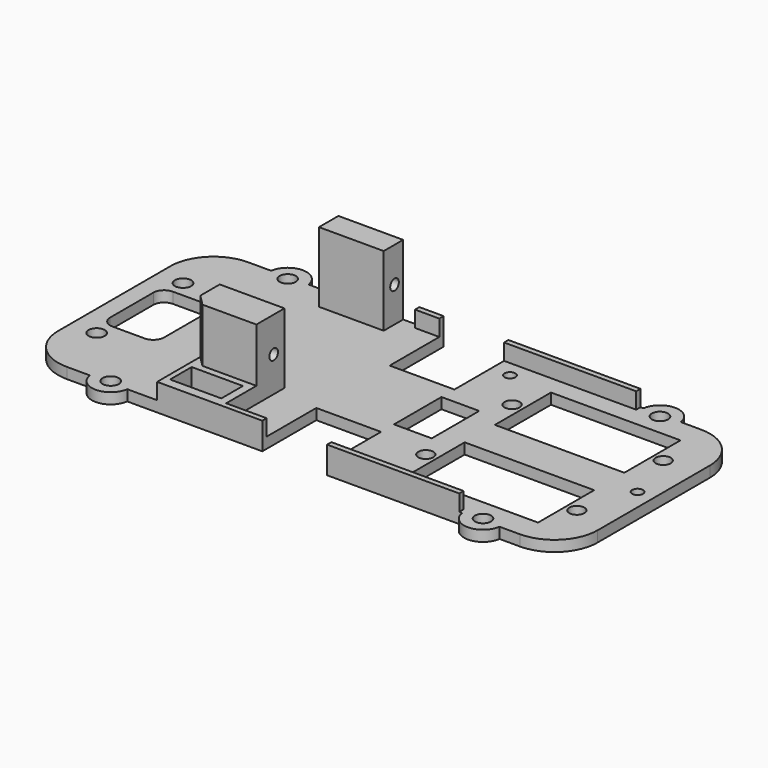
from build123d import *

# Parameters (mm, degrees)
BOX158_W               = 10
BOX158_H               = 10
BOX158_DEPTH           = 11
BOX087_W               = 7
BOX087_H               = 11
BOX087_DEPTH           = 10
CYLINDER154_R          = 1
CYLINDER154_DEPTH      = 25
CYLINDER150_R          = 1
CYLINDER150_DEPTH      = 25
CYLINDER151_R          = 1.5
CYLINDER151_DEPTH      = 25
CYLINDER146_R          = 1.5
CYLINDER146_DEPTH      = 25
CYLINDER147_R          = 1
CYLINDER147_DEPTH      = 25
BOX083_W               = 10
BOX083_H               = 14
BOX083_DEPTH           = 10
FILLET079_R            = 2
BOX086_W               = 9.5
BOX086_H               = 5
BOX086_DEPTH           = 10
CYLINDER024_R          = 1
CYLINDER024_DEPTH      = 20
CYLINDER023_R          = 1
CYLINDER023_DEPTH      = 20
CYLINDER029_R          = 1.5
CYLINDER029_DEPTH      = 10
CYLINDER026_R          = 1.5
CYLINDER026_DEPTH      = 5
CYLINDER030_R          = 1.5
CYLINDER030_DEPTH      = 10
CYLINDER027_R          = 3.5
CYLINDER027_DEPTH      = 5
BOX015_W               = 32
BOX015_H               = 13
BOX015_DEPTH           = 2
CYLINDER028_R          = 6.5
CYLINDER028_DEPTH      = 6
BOX014_W               = 23
BOX014_H               = 13
BOX014_DEPTH           = 23
CUT005_ROLL_ANGLE      = -90
CUT005_PLACEMENT_ANGLE = -90
BOX053_W               = 3
BOX053_H               = 33
BOX053_DEPTH           = 10
BOX055_W               = 24
BOX055_H               = 13
BOX055_DEPTH           = 10
BOX054_W               = 24
BOX054_H               = 13
BOX054_DEPTH           = 10
BOX062_W               = 5
BOX062_H               = 6
BOX062_DEPTH           = 5
BOX065_W               = 12
BOX065_H               = 9
BOX065_DEPTH           = 12
BOX041_W               = 12
BOX041_H               = 13
BOX041_DEPTH           = 10
BOX040_W               = 12
BOX040_H               = 13
BOX040_DEPTH           = 10
BOX039_W               = 56
BOX039_H               = 1
BOX039_DEPTH           = 3
BOX038_W               = 56
BOX038_H               = 1
BOX038_DEPTH           = 3
CYLINDER080_R          = 1.4
CYLINDER080_DEPTH      = 10
CYLINDER082_R          = 1.4
CYLINDER082_DEPTH      = 10
CYLINDER079_R          = 1.4
CYLINDER079_DEPTH      = 10
CYLINDER075_R          = 1.5
CYLINDER075_DEPTH      = 10
CYLINDER076_R          = 1.5
CYLINDER076_DEPTH      = 10
CYLINDER047_R          = 1.5
CYLINDER047_DEPTH      = 10
CYLINDER048_R          = 1.5
CYLINDER048_DEPTH      = 10
CYLINDER081_R          = 1.4
CYLINDER081_DEPTH      = 10
CYLINDER036_R          = 1.5
CYLINDER036_DEPTH      = 10
CYLINDER039_R          = 1.5
CYLINDER039_DEPTH      = 5
CYLINDER040_R          = 1.5
CYLINDER040_DEPTH      = 10
CYLINDER037_R          = 3.5
CYLINDER037_DEPTH      = 5
BOX018_W               = 32
BOX018_H               = 13
BOX018_DEPTH           = 2
CYLINDER038_R          = 6.5
CYLINDER038_DEPTH      = 6
BOX019_W               = 23
BOX019_H               = 13
BOX019_DEPTH           = 23
CYLINDER033_R          = 1.5
CYLINDER033_DEPTH      = 10
CYLINDER031_R          = 1.5
CYLINDER031_DEPTH      = 5
CYLINDER032_R          = 1.5
CYLINDER032_DEPTH      = 10
CYLINDER034_R          = 3.5
CYLINDER034_DEPTH      = 5
BOX017_W               = 32
BOX017_H               = 13
BOX017_DEPTH           = 2
CYLINDER035_R          = 6.5
CYLINDER035_DEPTH      = 6
BOX016_W               = 23
BOX016_H               = 13
BOX016_DEPTH           = 23
CYLINDER044_R          = 3.5
CYLINDER044_DEPTH      = 2
BOX007_W               = 100
BOX007_H               = 42
BOX007_DEPTH           = 2
CYLINDER077_R          = 3.5
CYLINDER077_DEPTH      = 2
CYLINDER078_R          = 3.5
CYLINDER078_DEPTH      = 2
CYLINDER043_R          = 3.5
CYLINDER043_DEPTH      = 2
BOX012_W               = 12
BOX012_H               = 42
BOX012_DEPTH           = 14
FILLET080_R            = 8
CHAMFER017_SIZE        = 2


with BuildPart() as obj1:
    # Box158 → Box158 (new body)
    with BuildSketch(Plane(origin=(-39, -23, -4), x_dir=(1, 0, 0), z_dir=(0, 0, 1))):
        with Locations((5, 5)):
            Rectangle(BOX158_W, BOX158_H)
    extrude(amount=BOX158_DEPTH)


with BuildPart() as obj2:
    # Box087 → Box087 (new body)
    with BuildSketch(Plane(origin=(-12, -5.5, -11), x_dir=(1, 0, 0), z_dir=(0, 0, 1))):
        with Locations((3.5, 5.5)):
            Rectangle(BOX087_W, BOX087_H)
    extrude(amount=BOX087_DEPTH)


with BuildPart() as zylinder154:
    # Cylinder154 → Cylinder154 (new body)
    with BuildSketch(Plane(origin=(28.75, 0, -10), x_dir=(1, 0, 0), z_dir=(0, 0, 1))):
        Circle(CYLINDER154_R)
    extrude(amount=CYLINDER154_DEPTH)


with BuildPart() as zylinder150:
    # Cylinder150 → Cylinder150 (new body)
    with BuildSketch(Plane(origin=(-8.5, -17, -10), x_dir=(1, 0, 0), z_dir=(0, 0, 1))):
        Circle(CYLINDER150_R)
    extrude(amount=CYLINDER150_DEPTH)


with BuildPart() as zylinder151:
    # Cylinder151 → Cylinder151 (new body)
    with BuildSketch(Plane(origin=(-63.5, -10, -10), x_dir=(1, 0, 0), z_dir=(0, 0, 1))):
        Circle(CYLINDER151_R)
    extrude(amount=CYLINDER151_DEPTH)


with BuildPart() as zylinder146:
    # Cylinder146 → Cylinder146 (new body)
    with BuildSketch(Plane(origin=(-63.5, 10, -10), x_dir=(1, 0, 0), z_dir=(0, 0, 1))):
        Circle(CYLINDER146_R)
    extrude(amount=CYLINDER146_DEPTH)


with BuildPart() as zylinder147:
    # Cylinder147 → Cylinder147 (new body)
    with BuildSketch(Plane(origin=(-8.5, 17, -10), x_dir=(1, 0, 0), z_dir=(0, 0, 1))):
        Circle(CYLINDER147_R)
    extrude(amount=CYLINDER147_DEPTH)


with BuildPart() as fillet079:
    # Box083 → Box083 (new body)
    with BuildSketch(Plane(origin=(-65, -7, -13.5), x_dir=(1, 0, 0), z_dir=(0, 0, 1))):
        with Locations((5, 7)):
            Rectangle(BOX083_W, BOX083_H)
    extrude(amount=BOX083_DEPTH)

    # Fillet079
    fillet079_edges = [fillet079.edges().sort_by_distance(p)[0] for p in [
        (-65, -7, -8.5),
        (-65, 7, -8.5),
        (-55, -7, -8.5),
        (-55, 7, -8.5),
    ]]
    fillet(fillet079_edges, radius=FILLET079_R)


with BuildPart() as fusion092:
    # Box086 → Box086 (new body)
    with BuildSketch(Plane(origin=(-42.5, -19.25, -11), x_dir=(1, 0, 0), z_dir=(0, 0, 1))):
        with Locations((4.75, 2.5)):
            Rectangle(BOX086_W, BOX086_H)
    extrude(amount=BOX086_DEPTH)

    # Fusion092: union obj2, Zylinder154, Zylinder150, Zylinder151, Zylinder146, Zylinder147, Fillet079
    add(obj2.part)
    add(zylinder154.part)
    add(zylinder150.part)
    add(zylinder151.part)
    add(zylinder146.part)
    add(zylinder147.part)
    add(fillet079.part)


with BuildPart() as zylinder024:
    # Cylinder024 → Cylinder024 (new body)
    with BuildSketch(Plane(origin=(-45, 19, -1.5), x_dir=(0, 0, -1), z_dir=(1, 0, 0))):
        Circle(CYLINDER024_R)
    extrude(amount=CYLINDER024_DEPTH)


with BuildPart() as fusion010:
    # Cylinder023 → Cylinder023 (new body)
    with BuildSketch(Plane(origin=(-45, -9, -1.5), x_dir=(0, 0, -1), z_dir=(1, 0, 0))):
        Circle(CYLINDER023_R)
    extrude(amount=CYLINDER023_DEPTH)

    # Fusion010: union Zylinder024
    add(zylinder024.part)


with BuildPart() as zylinder029:
    # Cylinder029 → Cylinder029 (new body)
    with BuildSketch(Plane(origin=(25.5, 6.5, 13), x_dir=(1, 0, 0), z_dir=(0, 0, 1))):
        Circle(CYLINDER029_R)
    extrude(amount=CYLINDER029_DEPTH)


with BuildPart() as zylinder026:
    # Cylinder026 → Cylinder026 (new body)
    with BuildSketch(Plane(origin=(16.5, 6.5, 30), x_dir=(1, 0, 0), z_dir=(0, 0, 1))):
        Circle(CYLINDER026_R)
    extrude(amount=CYLINDER026_DEPTH)


with BuildPart() as fusion013:
    # Cylinder030 → Cylinder030 (new body)
    with BuildSketch(Plane(origin=(-2.5, 6.5, 13), x_dir=(1, 0, 0), z_dir=(0, 0, 1))):
        Circle(CYLINDER030_R)
    extrude(amount=CYLINDER030_DEPTH)

    # Fusion013: union Zylinder029, Zylinder026
    add(zylinder029.part)
    add(zylinder026.part)


with BuildPart() as zylinder027:
    # Cylinder027 → Cylinder027 (new body)
    with BuildSketch(Plane(origin=(16.5, 6.5, 29), x_dir=(1, 0, 0), z_dir=(0, 0, 1))):
        Circle(CYLINDER027_R)
    extrude(amount=CYLINDER027_DEPTH)


with BuildPart() as obj3:
    # Box015 → Box015 (new body)
    with BuildSketch(Plane(origin=(-4.5, 0, 18), x_dir=(1, 0, 0), z_dir=(0, 0, 1))):
        with Locations((16, 6.5)):
            Rectangle(BOX015_W, BOX015_H)
    extrude(amount=BOX015_DEPTH)


with BuildPart() as zylinder028:
    # Cylinder028 → Cylinder028 (new body)
    with BuildSketch(Plane(origin=(16.5, 6.5, 23), x_dir=(1, 0, 0), z_dir=(0, 0, 1))):
        Circle(CYLINDER028_R)
    extrude(amount=CYLINDER028_DEPTH)


with BuildPart() as servo3_mask:
    # Box014 → Box014 (new body)
    with BuildSketch(Plane.XY):
        with Locations((11.5, 6.5)):
            Rectangle(BOX014_W, BOX014_H)
    extrude(amount=BOX014_DEPTH)

    # Fusion012: union Zylinder027, obj3, Zylinder028
    add(zylinder027.part)
    add(obj3.part)
    add(zylinder028.part)

    # Cut005: cut Fusion013
    add(fusion013.part, mode=Mode.SUBTRACT)


with BuildPart() as servo3_mask_1:
    # Cut005 roll: moved
    add(servo3_mask.part.rotate(Axis((0, 0, 0), (1, 0, 0)), CUT005_ROLL_ANGLE))


with BuildPart() as servo3_mask_2:
    # Cut005 placement: moved
    add(servo3_mask_1.part.moved(Location((-49.5, 16.5, 5))).rotate(Axis((-49.5, 16.5, 5), (0, 0, 1)), CUT005_PLACEMENT_ANGLE))


with BuildPart() as obj4:
    # Box053 → Box053 (new body)
    with BuildSketch(Plane(origin=(-31.5, -10, -8), x_dir=(1, 0, 0), z_dir=(0, 0, 1))):
        with Locations((1.5, 16.5)):
            Rectangle(BOX053_W, BOX053_H)
    extrude(amount=BOX053_DEPTH)


with BuildPart() as obj5:
    # Box055 → Box055 (new body)
    with BuildSketch(Plane(origin=(-0.5, -16.5, -12.5), x_dir=(1, 0, 0), z_dir=(0, 0, 1))):
        with Locations((12, 6.5)):
            Rectangle(BOX055_W, BOX055_H)
    extrude(amount=BOX055_DEPTH)


with BuildPart() as obj6:
    # Box054 → Box054 (new body)
    with BuildSketch(Plane(origin=(-0.5, 3.5, -12.5), x_dir=(1, 0, 0), z_dir=(0, 0, 1))):
        with Locations((12, 6.5)):
            Rectangle(BOX054_W, BOX054_H)
    extrude(amount=BOX054_DEPTH)


with BuildPart() as obj7:
    # Box062 → Box062 (new body)
    with BuildSketch(Plane(origin=(-29, 5, -8), x_dir=(1, 0, 0), z_dir=(0, 0, 1))):
        with Locations((2.5, 3)):
            Rectangle(BOX062_W, BOX062_H)
    extrude(amount=BOX062_DEPTH)


with BuildPart() as fusion063:
    # Box065 → Box065 (new body)
    with BuildSketch(Plane(origin=(-45, -22, -5), x_dir=(1, 0, 0), z_dir=(0, 0, 1))):
        with Locations((6, 4.5)):
            Rectangle(BOX065_W, BOX065_H)
    extrude(amount=BOX065_DEPTH)

    # Fusion063: union Fusion010, Servo3_mask, obj4, obj5, obj6, obj7
    add(fusion010.part)
    add(servo3_mask_2.part)
    add(obj4.part)
    add(obj5.part)
    add(obj6.part)
    add(obj7.part)


with BuildPart() as fusion063_1:
    # Fusion063 placement: moved
    add(fusion063.part.moved(Location((0, 0, 1))))


with BuildPart() as obj8:
    # Box041 → Box041 (new body)
    with BuildSketch(Plane(origin=(-24, 8.5, -11), x_dir=(1, 0, 0), z_dir=(0, 0, 1))):
        with Locations((6, 6.5)):
            Rectangle(BOX041_W, BOX041_H)
    extrude(amount=BOX041_DEPTH)


with BuildPart() as fusion044:
    # Box040 → Box040 (new body)
    with BuildSketch(Plane(origin=(-24, -21.5, -11), x_dir=(1, 0, 0), z_dir=(0, 0, 1))):
        with Locations((6, 6.5)):
            Rectangle(BOX040_W, BOX040_H)
    extrude(amount=BOX040_DEPTH)

    # Fusion044: union obj8
    add(obj8.part)


with BuildPart() as obj9:
    # Box039 → Box039 (new body)
    with BuildSketch(Plane(origin=(-43.5, -21, -7), x_dir=(1, 0, 0), z_dir=(0, 0, 1))):
        with Locations((28, 0.5)):
            Rectangle(BOX039_W, BOX039_H)
    extrude(amount=BOX039_DEPTH)


with BuildPart() as fusion042:
    # Box038 → Box038 (new body)
    with BuildSketch(Plane(origin=(-43.5, 20, -7), x_dir=(1, 0, 0), z_dir=(0, 0, 1))):
        with Locations((28, 0.5)):
            Rectangle(BOX038_W, BOX038_H)
    extrude(amount=BOX038_DEPTH)

    # Fusion042: union obj9
    add(obj9.part)


with BuildPart() as zylinder080:
    # Cylinder080 → Cylinder080 (new body)
    with BuildSketch(Plane(origin=(25.5, 10, -13), x_dir=(1, 0, 0), z_dir=(0, 0, 1))):
        Circle(CYLINDER080_R)
    extrude(amount=CYLINDER080_DEPTH)


with BuildPart() as zylinder082:
    # Cylinder082 → Cylinder082 (new body)
    with BuildSketch(Plane(origin=(-2.5, -10, -13), x_dir=(1, 0, 0), z_dir=(0, 0, 1))):
        Circle(CYLINDER082_R)
    extrude(amount=CYLINDER082_DEPTH)


with BuildPart() as zylinder079:
    # Cylinder079 → Cylinder079 (new body)
    with BuildSketch(Plane(origin=(-2.5, 10, -13), x_dir=(1, 0, 0), z_dir=(0, 0, 1))):
        Circle(CYLINDER079_R)
    extrude(amount=CYLINDER079_DEPTH)


with BuildPart() as zylinder075:
    # Cylinder075 → Cylinder075 (new body)
    with BuildSketch(Plane(origin=(-52.5, -20.5, -14), x_dir=(1, 0, 0), z_dir=(0, 0, 1))):
        Circle(CYLINDER075_R)
    extrude(amount=CYLINDER075_DEPTH)


with BuildPart() as zylinder076:
    # Cylinder076 → Cylinder076 (new body)
    with BuildSketch(Plane(origin=(-52.5, 20.5, -14), x_dir=(1, 0, 0), z_dir=(0, 0, 1))):
        Circle(CYLINDER076_R)
    extrude(amount=CYLINDER076_DEPTH)


with BuildPart() as zylinder047:
    # Cylinder047 → Cylinder047 (new body)
    with BuildSketch(Plane(origin=(16.5, -20.5, -14), x_dir=(1, 0, 0), z_dir=(0, 0, 1))):
        Circle(CYLINDER047_R)
    extrude(amount=CYLINDER047_DEPTH)


with BuildPart() as zylinder048:
    # Cylinder048 → Cylinder048 (new body)
    with BuildSketch(Plane(origin=(16.5, 20.5, -14), x_dir=(1, 0, 0), z_dir=(0, 0, 1))):
        Circle(CYLINDER048_R)
    extrude(amount=CYLINDER048_DEPTH)


with BuildPart() as fusion039:
    # Cylinder081 → Cylinder081 (new body)
    with BuildSketch(Plane(origin=(25.5, -10, -13), x_dir=(1, 0, 0), z_dir=(0, 0, 1))):
        Circle(CYLINDER081_R)
    extrude(amount=CYLINDER081_DEPTH)

    # Fusion039: union Zylinder080, Zylinder082, Zylinder079, Zylinder075, Zylinder076, Zylinder047, Zylinder048
    add(zylinder080.part)
    add(zylinder082.part)
    add(zylinder079.part)
    add(zylinder075.part)
    add(zylinder076.part)
    add(zylinder047.part)
    add(zylinder048.part)


with BuildPart() as zylinder036:
    # Cylinder036 → Cylinder036 (new body)
    with BuildSketch(Plane(origin=(25.5, 6.5, 13), x_dir=(1, 0, 0), z_dir=(0, 0, 1))):
        Circle(CYLINDER036_R)
    extrude(amount=CYLINDER036_DEPTH)


with BuildPart() as zylinder039:
    # Cylinder039 → Cylinder039 (new body)
    with BuildSketch(Plane(origin=(16.5, 6.5, 30), x_dir=(1, 0, 0), z_dir=(0, 0, 1))):
        Circle(CYLINDER039_R)
    extrude(amount=CYLINDER039_DEPTH)


with BuildPart() as fusion016:
    # Cylinder040 → Cylinder040 (new body)
    with BuildSketch(Plane(origin=(-2.5, 6.5, 13), x_dir=(1, 0, 0), z_dir=(0, 0, 1))):
        Circle(CYLINDER040_R)
    extrude(amount=CYLINDER040_DEPTH)

    # Fusion016: union Zylinder036, Zylinder039
    add(zylinder036.part)
    add(zylinder039.part)


with BuildPart() as zylinder037:
    # Cylinder037 → Cylinder037 (new body)
    with BuildSketch(Plane(origin=(16.5, 6.5, 29), x_dir=(1, 0, 0), z_dir=(0, 0, 1))):
        Circle(CYLINDER037_R)
    extrude(amount=CYLINDER037_DEPTH)


with BuildPart() as obj10:
    # Box018 → Box018 (new body)
    with BuildSketch(Plane(origin=(-4.5, 0, 18), x_dir=(1, 0, 0), z_dir=(0, 0, 1))):
        with Locations((16, 6.5)):
            Rectangle(BOX018_W, BOX018_H)
    extrude(amount=BOX018_DEPTH)


with BuildPart() as zylinder038:
    # Cylinder038 → Cylinder038 (new body)
    with BuildSketch(Plane(origin=(16.5, 6.5, 23), x_dir=(1, 0, 0), z_dir=(0, 0, 1))):
        Circle(CYLINDER038_R)
    extrude(amount=CYLINDER038_DEPTH)


with BuildPart() as servo2_mask:
    # Box019 → Box019 (new body)
    with BuildSketch(Plane.XY):
        with Locations((11.5, 6.5)):
            Rectangle(BOX019_W, BOX019_H)
    extrude(amount=BOX019_DEPTH)

    # Fusion017: union Zylinder037, obj10, Zylinder038
    add(zylinder037.part)
    add(obj10.part)
    add(zylinder038.part)

    # Cut008: cut Fusion016
    add(fusion016.part, mode=Mode.SUBTRACT)


with BuildPart() as servo2_mask_1:
    # Cut008 placement: moved
    add(servo2_mask.part.moved(Location((0, -16.5, -25))))


with BuildPart() as zylinder033:
    # Cylinder033 → Cylinder033 (new body)
    with BuildSketch(Plane(origin=(25.5, 6.5, 13), x_dir=(1, 0, 0), z_dir=(0, 0, 1))):
        Circle(CYLINDER033_R)
    extrude(amount=CYLINDER033_DEPTH)


with BuildPart() as zylinder031:
    # Cylinder031 → Cylinder031 (new body)
    with BuildSketch(Plane(origin=(16.5, 6.5, 30), x_dir=(1, 0, 0), z_dir=(0, 0, 1))):
        Circle(CYLINDER031_R)
    extrude(amount=CYLINDER031_DEPTH)


with BuildPart() as fusion015:
    # Cylinder032 → Cylinder032 (new body)
    with BuildSketch(Plane(origin=(-2.5, 6.5, 13), x_dir=(1, 0, 0), z_dir=(0, 0, 1))):
        Circle(CYLINDER032_R)
    extrude(amount=CYLINDER032_DEPTH)

    # Fusion015: union Zylinder033, Zylinder031
    add(zylinder033.part)
    add(zylinder031.part)


with BuildPart() as zylinder034:
    # Cylinder034 → Cylinder034 (new body)
    with BuildSketch(Plane(origin=(16.5, 6.5, 29), x_dir=(1, 0, 0), z_dir=(0, 0, 1))):
        Circle(CYLINDER034_R)
    extrude(amount=CYLINDER034_DEPTH)


with BuildPart() as obj11:
    # Box017 → Box017 (new body)
    with BuildSketch(Plane(origin=(-4.5, 0, 18), x_dir=(1, 0, 0), z_dir=(0, 0, 1))):
        with Locations((16, 6.5)):
            Rectangle(BOX017_W, BOX017_H)
    extrude(amount=BOX017_DEPTH)


with BuildPart() as zylinder035:
    # Cylinder035 → Cylinder035 (new body)
    with BuildSketch(Plane(origin=(16.5, 6.5, 23), x_dir=(1, 0, 0), z_dir=(0, 0, 1))):
        Circle(CYLINDER035_R)
    extrude(amount=CYLINDER035_DEPTH)


with BuildPart() as fusion040:
    # Box016 → Box016 (new body)
    with BuildSketch(Plane.XY):
        with Locations((11.5, 6.5)):
            Rectangle(BOX016_W, BOX016_H)
    extrude(amount=BOX016_DEPTH)

    # Fusion014: union Zylinder034, obj11, Zylinder035
    add(zylinder034.part)
    add(obj11.part)
    add(zylinder035.part)

    # Cut007: cut Fusion015
    add(fusion015.part, mode=Mode.SUBTRACT)


with BuildPart() as fusion040_1:
    # Cut007 placement: moved
    add(fusion040.part.moved(Location((0, 3.5, -25))))

    # Fusion022: union Servo2_mask
    add(servo2_mask_1.part)

    # Fusion040: union Fusion039
    add(fusion039.part)


with BuildPart() as zylinder044:
    # Cylinder044 → Cylinder044 (new body)
    with BuildSketch(Plane(origin=(16.5, -20.5, -9), x_dir=(1, 0, 0), z_dir=(0, 0, 1))):
        Circle(CYLINDER044_R)
    extrude(amount=CYLINDER044_DEPTH)


with BuildPart() as base:
    # Box007 → Box007 (new body)
    with BuildSketch(Plane(origin=(-68.25, -21, -9), x_dir=(1, 0, 0), z_dir=(0, 0, 1))):
        with Locations((50, 21)):
            Rectangle(BOX007_W, BOX007_H)
    extrude(amount=BOX007_DEPTH)


with BuildPart() as zylinder077:
    # Cylinder077 → Cylinder077 (new body)
    with BuildSketch(Plane(origin=(-52.5, 20.5, -9), x_dir=(1, 0, 0), z_dir=(0, 0, 1))):
        Circle(CYLINDER077_R)
    extrude(amount=CYLINDER077_DEPTH)


with BuildPart() as zylinder078:
    # Cylinder078 → Cylinder078 (new body)
    with BuildSketch(Plane(origin=(-52.5, -20.5, -9), x_dir=(1, 0, 0), z_dir=(0, 0, 1))):
        Circle(CYLINDER078_R)
    extrude(amount=CYLINDER078_DEPTH)


with BuildPart() as fusion043:
    # Cylinder043 → Cylinder043 (new body)
    with BuildSketch(Plane(origin=(16.5, 20.5, -9), x_dir=(1, 0, 0), z_dir=(0, 0, 1))):
        Circle(CYLINDER043_R)
    extrude(amount=CYLINDER043_DEPTH)

    # Fusion041: union Zylinder044, Base, Zylinder077, Zylinder078
    add(zylinder044.part)
    add(base.part)
    add(zylinder077.part)
    add(zylinder078.part)

    # Cut026: cut Fusion040
    add(fusion040_1.part, mode=Mode.SUBTRACT)

    # Fusion043: union Fusion042
    add(fusion042.part)


with BuildPart() as cut107:
    # Box012 → Box012 (new body)
    with BuildSketch(Plane(origin=(-43.5, -21, -8), x_dir=(1, 0, 0), z_dir=(0, 0, 1))):
        with Locations((6, 21)):
            Rectangle(BOX012_W, BOX012_H)
    extrude(amount=BOX012_DEPTH)

    # Fusion065: union Fusion043
    add(fusion043.part)

    # Cut046: cut Fusion044
    add(fusion044.part, mode=Mode.SUBTRACT)

    # Cut047: cut Fusion063
    add(fusion063_1.part, mode=Mode.SUBTRACT)

    # Cut072: cut Fusion092
    add(fusion092.part, mode=Mode.SUBTRACT)

    # Fillet080
    fillet080_edges = [cut107.edges().sort_by_distance(p)[0] for p in [
        (-68.25, 21, -8),
        (-68.25, -21, -8),
        (31.75, 21, -8),
        (31.75, -21, -8),
    ]]
    fillet(fillet080_edges, radius=FILLET080_R)

    # Chamfer017
    chamfer017_edges = [cut107.edges().sort_by_distance(p)[0] for p in [
        (-43.5, -13, 1),
    ]]
    chamfer(chamfer017_edges, length=CHAMFER017_SIZE)

    # Cut107: cut obj1
    add(obj1.part, mode=Mode.SUBTRACT)


solid = cut107.part
